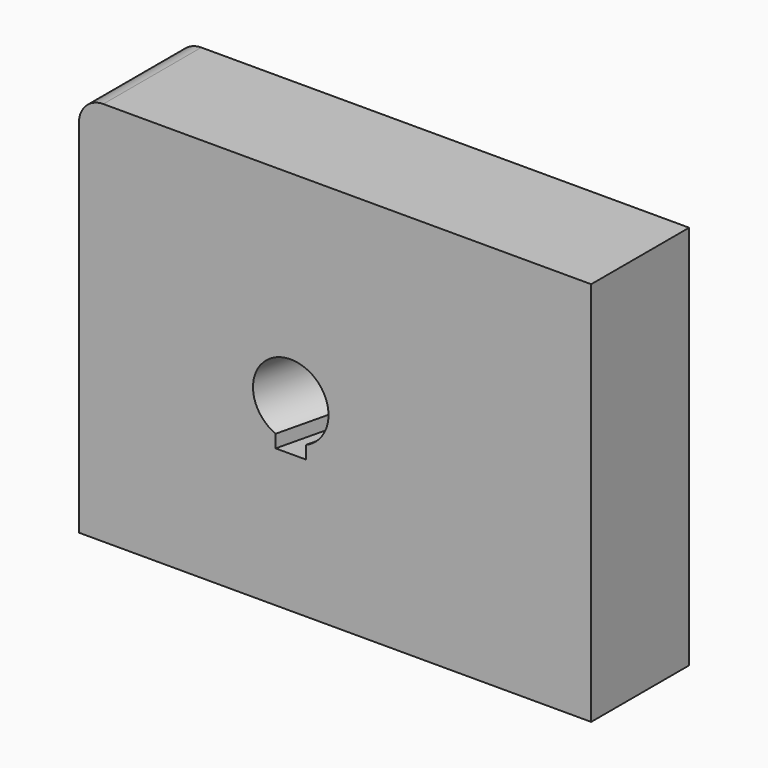
from build123d import *

# Parameters (mm, degrees)
F1_DEPTH      = 25
F4_DEPTH      = 24.3161811297
F4_DEPTH_BACK = 24.3161811297
F5_R          = 4
F6_DEPTH      = 25


with BuildPart() as f1:
    # F0 (on Front) → F1 (new body)
    with BuildSketch(Plane.XZ):
        with BuildLine():
            Line((55.3635079414, 40.9526537359), (-44.2383363843, 40.9526537359))
            ThreePointArc((-44.2383363843, 40.9526537359), (-47.7738702902, 39.4881876418), (-49.2383363843, 35.9526537359))
            Line((-49.2383363843, 35.9526537359), (-49.2383363843, -37.7181139815))
            Line((-49.2383363843, -37.7181139815), (55.3635079414, -37.7181139815))
            Line((55.3635079414, -37.7181139815), (55.3635079414, 40.9526537359))
        make_face()
    extrude(amount=F1_DEPTH)

    # F3 (on 3pt) → F4 (cut, two sides)
    with BuildSketch(Plane(origin=(-2.6606007252, -11.1321497148, 0), x_dir=(-0.9726072452, 0.2324546119, 0), z_dir=(0.2324546119, 0.9726072452, 0))) as f4_sk:
        with BuildLine():
            Line((3, -9.5), (3, -6.8738635424))
            ThreePointArc((3, -6.8738635424), (0, 7.5), (-3, -6.8738635424))
            Line((-3, -6.8738635424), (-3, -9.5))
            Line((-3, -9.5), (3, -9.5))
        make_face()
    extrude(amount=-F4_DEPTH, mode=Mode.SUBTRACT)
    extrude(f4_sk.sketch, amount=F4_DEPTH_BACK, mode=Mode.SUBTRACT)

    # F5 (on Right) → F6 (cut)
    with BuildSketch(Plane.YZ):
        with Locations((-13.9910853659, 0)):
            Circle(F5_R)
    extrude(amount=F6_DEPTH, mode=Mode.SUBTRACT)


solid = f1.part
